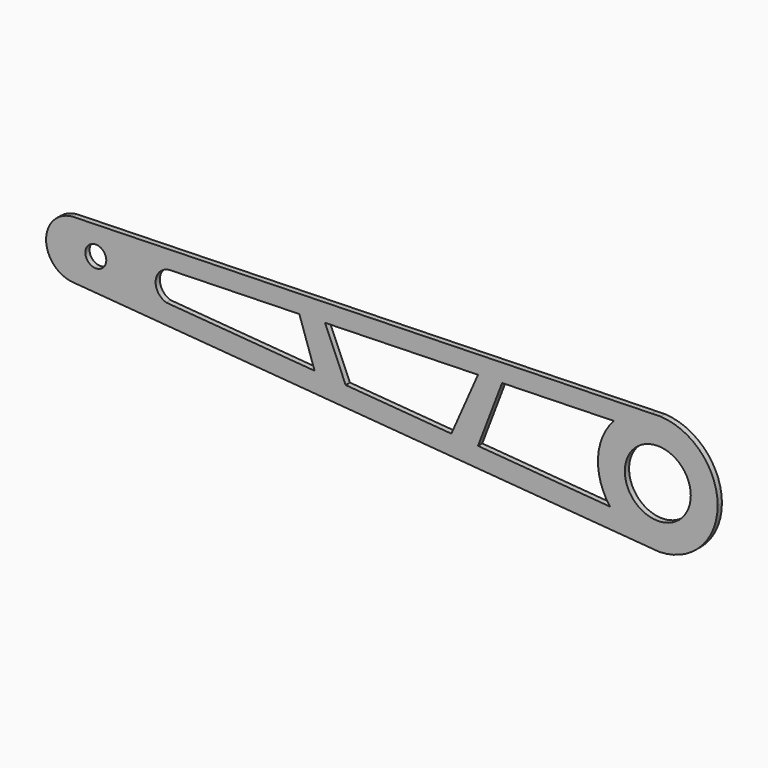
from build123d import *

# Parameters (mm, degrees)
F1_DEPTH = 0.739
F2_R     = 4.5593
F3_DEPTH = 25.4
F4_R     = 1.447766
F5_DEPTH = 25.4


with BuildPart() as f1:
    # F0 (on Front) → F1 (new body)
    with BuildSketch(Plane.XZ):
        with BuildLine():
            ThreePointArc((27.782233, 3.263093), (30.16178, 5.045361), (33.017843, 5.870969))
            Line((33.017843, 5.870969), (-46.981648, 3.796947))
            ThreePointArc((-46.981648, 3.796947), (-50.678208, -0.180343), (-46.9984, -4.173137))
            Line((-46.9984, -4.173137), (32.345508, -10.48937))
            ThreePointArc((32.345508, -10.48937), (29.496427, -9.389113), (27.240975, -7.329802))
            Line((27.240975, -7.329802), (9.005115, -5.878122))
            Line((9.005115, -5.878122), (5.326605, -5.585291))
            Line((5.326605, -5.585291), (-9.280345, -4.422494))
            Line((-9.280345, -4.422494), (-13.580459, -4.08018))
            Line((-13.580459, -4.08018), (-34.080148, -2.448286))
            ThreePointArc((-34.080148, -2.448286), (-35.521395, -0.140366), (-33.488405, 1.668126))
            Line((-33.488405, 1.668126), (-15.681088, 2.131677))
            Line((-15.681088, 2.131677), (-12.137563, 2.223921))
            Line((-12.137563, 2.223921), (9.005115, 2.774297))
            Line((9.005115, 2.774297), (12.333791, 2.860947))
            Line((12.333791, 2.860947), (27.782233, 3.263093))
        make_face()
        with BuildLine():
            ThreePointArc((34.046986, -10.624817), (39.766374, -8.134536), (42.119023, -2.357172))
            ThreePointArc((42.119023, -2.357172), (39.837821, 3.346097), (34.252707, 5.902984))
            Line((34.252707, 5.902984), (33.017843, 5.870969))
            ThreePointArc((33.017843, 5.870969), (30.16178, 5.045361), (27.782233, 3.263093))
            ThreePointArc((27.782233, 3.263093), (25.589768, -1.935156), (27.240975, -7.329802))
            ThreePointArc((27.240975, -7.329802), (29.496427, -9.389113), (32.345508, -10.48937))
            Line((32.345508, -10.48937), (34.046986, -10.624817))
        make_face()
        Polygon((9.005115, -5.878122), (12.333791, 2.860947), (9.005115, 2.774297), (5.326605, -5.585291), align=None)
        Polygon((-9.280345, -4.422494), (-12.137563, 2.223921), (-15.681088, 2.131677), (-13.580459, -4.08018), align=None)
    extrude(amount=F1_DEPTH)

    # F2 (on face) → F3 (cut)
    with BuildSketch(Plane.XZ.offset(0.739)):
        with Locations((33.849008, -2.357172)):
            Circle(F2_R)
    extrude(amount=-F3_DEPTH, mode=Mode.SUBTRACT)

    # F4 (on face) → F5 (cut)
    with BuildSketch(Plane.XZ.offset(0.739)):
        with Locations((-43.807384, 0)):
            Circle(F4_R)
    extrude(amount=-F5_DEPTH, mode=Mode.SUBTRACT)


solid = f1.part
